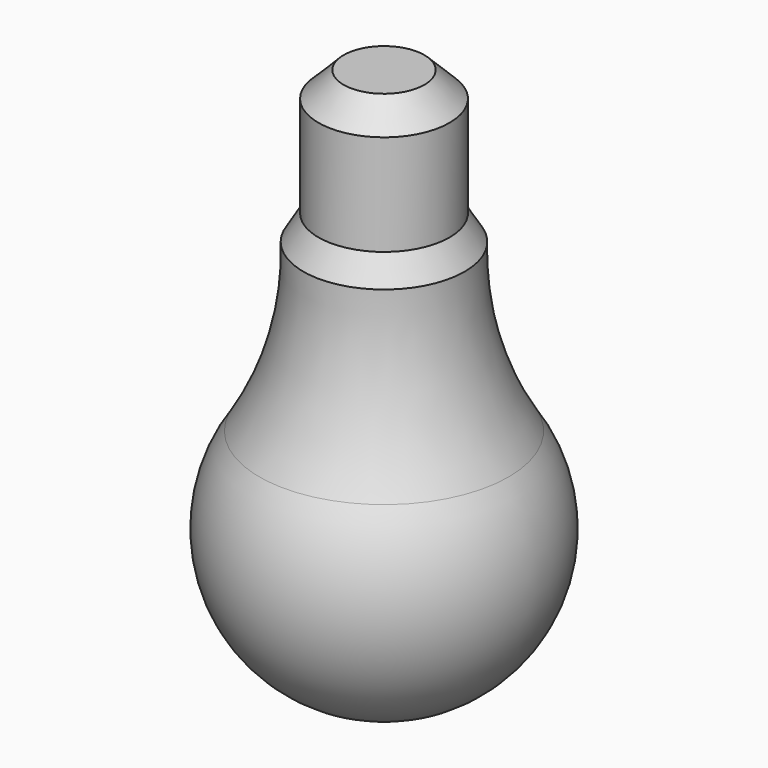
from build123d import *


with BuildPart() as f1:
    # F0 (on Front) → F1 (revolve)
    with BuildSketch(Plane.XZ):
        with BuildLine():
            Line((8, 0), (0, 0))
            Line((0, 0), (0, -110))
            ThreePointArc((0, -110), (26.551836, -93.96424), (24.718414, -63))
            ThreePointArc((24.718414, -63), (17.96313, -47.13303), (16, -30))
            Line((16, -30), (13, -25))
            Line((13, -25), (13, -5))
            Line((13, -5), (8, 0))
        make_face()
    revolve(axis=Axis((0, 0, -55), (0, 0, 1)))


solid = f1.part
